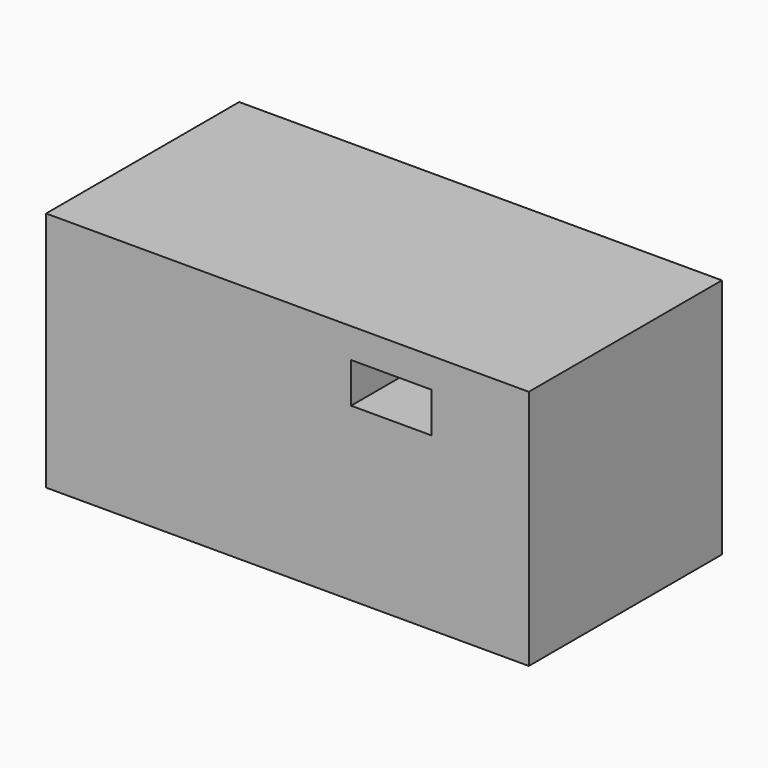
from build123d import *

# Parameters (mm, degrees)
F0_W     = 76.2
F0_H     = 38.1
F2_DEPTH = 38.1
F1_W     = 12.7
F1_H     = 6.35
F3_DEPTH = 64.516


with BuildPart() as f2:
    # F0 (on Front) → F2 (new body)
    with BuildSketch(Plane.XZ):
        Rectangle(F0_W, F0_H)
    extrude(amount=F2_DEPTH)

    # F1 (on face) → F3 (cut)
    with BuildSketch(Plane.XZ):
        with Locations((16.394343, 11.170578)):
            Rectangle(F1_W, F1_H)
    extrude(amount=F3_DEPTH, mode=Mode.SUBTRACT)


solid = f2.part
